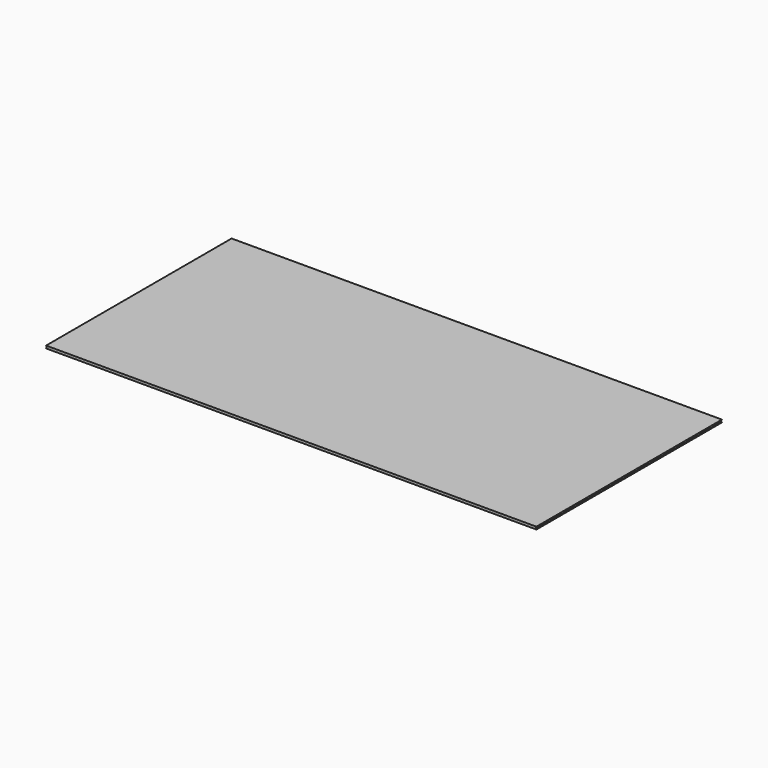
from build123d import *

# Parameters (mm, degrees)
F0_W     = 9700
F0_H     = 4588
F1_DEPTH = 50
F3_W     = 10
F3_H     = 37


with BuildPart() as f1:
    # F0 (on Top) → F1 (new body)
    with BuildSketch(Plane.XY):
        Rectangle(F0_W, F0_H)
    extrude(amount=F1_DEPTH)

    # F4: sweep along a path in F2
    with BuildLine(Plane.XY.offset(50)) as f4_path:
        Line((-4850, -2294), (-4850, 2294))
        Line((-4850, 2294), (4850, 2294))
        Line((4850, 2294), (4850, -2294))
    # F3 (on face) → F4 (sweep, cut)
    with BuildSketch(Plane.XZ.offset(2294)):
        with Locations((-4845, 25)):
            Rectangle(F3_W, F3_H)
    sweep(path=f4_path.line, transition=Transition.RIGHT, mode=Mode.SUBTRACT)


solid = f1.part
